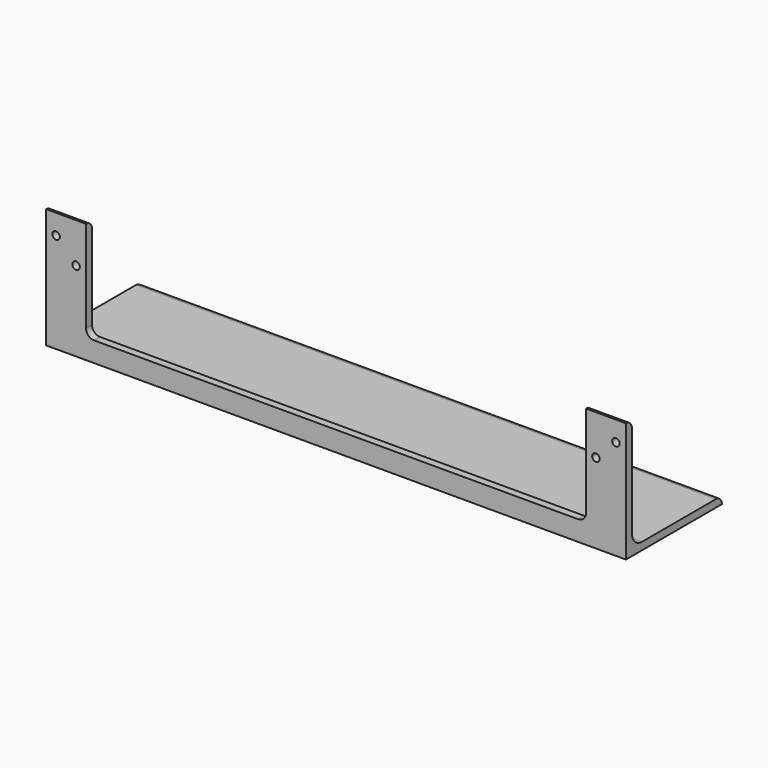
from build123d import *

# Parameters (mm, degrees)
F1_DEPTH = 184.15
F2_W     = 317.5
F2_H     = 68.2625
F2_H_2   = 58.7375
F3_DEPTH = 4.7635
F4_R     = 5.08
F5_R     = 2.38125
F6_DEPTH = 76.201


with BuildPart() as f1:
    # F0 (on Right) → F1 (new body, symmetric)
    with BuildSketch(Plane.YZ):
        with BuildLine():
            ThreePointArc((4.7625, 71.4375), (3.3675960454, 74.8050960454), (0, 76.2))
            Line((0, 76.2), (0, 0))
            Line((0, 0), (76.2, 0))
            ThreePointArc((76.2, 0), (74.8050960454, 3.3675960454), (71.4375, 4.7625))
            Line((71.4375, 4.7625), (12.7, 4.7625))
            ThreePointArc((12.7, 4.7625), (7.0873399243, 7.0873399243), (4.7625, 12.7))
            Line((4.7625, 12.7), (4.7625, 71.4375))
        make_face()
    extrude(amount=F1_DEPTH, both=True)

    # F2 (on face) → F3 (cut, through all)
    with BuildSketch(Plane(origin=(0, 4.7625, 0), x_dir=(-1, 0, 0), z_dir=(0, 1, 0))):
        with Locations((0, 105.56875)):
            Rectangle(F2_W, F2_H)
        with Locations((0, 42.06875)):
            Rectangle(F2_W, F2_H_2)
    extrude(amount=-F3_DEPTH, mode=Mode.SUBTRACT)

    # F4
    f4_edges = [f1.edges().sort_by_distance(p)[0] for p in [
        (158.75, 2.38125, 12.7),
        (-158.75, 2.38125, 12.7),
    ]]
    fillet(f4_edges, radius=F4_R)

    # F5 (on face) → F6 (cut, through all)
    with BuildSketch(Plane.XZ):
        with Locations((-165.1, 50.8)):
            Circle(F5_R)
        with Locations((-177.8, 63.5)):
            Circle(F5_R)
        with Locations((177.8, 63.5)):
            Circle(F5_R)
        with Locations((165.1, 50.8)):
            Circle(F5_R)
    extrude(amount=-F6_DEPTH, mode=Mode.SUBTRACT)


solid = f1.part
